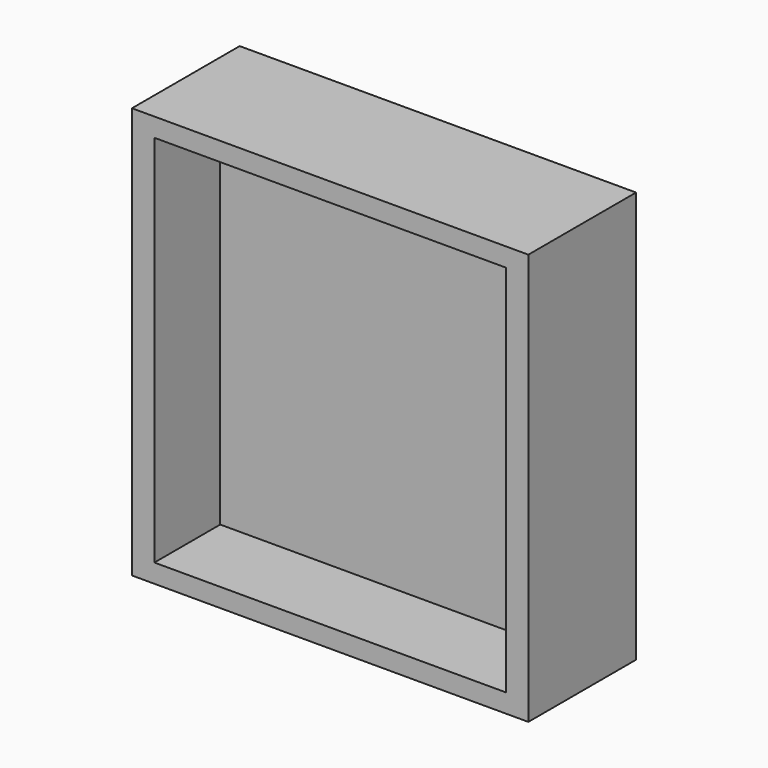
from build123d import *

# Parameters (mm, degrees)
BOX031_W     = 53
BOX031_H     = 7
BOX031_DEPTH = 55
BOX029_W     = 47
BOX029_H     = 12
BOX029_DEPTH = 50
BOX030_W     = 53
BOX030_H     = 11
BOX030_DEPTH = 55


with BuildPart() as cube030:
    # Box031 → Box031 (new body)
    with BuildSketch(Plane(origin=(-12, 3, -2.5), x_dir=(1, 0, 0), z_dir=(0, 0, 1))):
        with Locations((26.5, 3.5)):
            Rectangle(BOX031_W, BOX031_H)
    extrude(amount=BOX031_DEPTH)


with BuildPart() as cube028:
    # Box029 → Box029 (new body)
    with BuildSketch(Plane(origin=(-9, -8, 0), x_dir=(1, 0, 0), z_dir=(0, 0, 1))):
        with Locations((23.5, 6)):
            Rectangle(BOX029_W, BOX029_H)
    extrude(amount=BOX029_DEPTH)


with BuildPart() as fusion096:
    # Box030 → Box030 (new body)
    with BuildSketch(Plane(origin=(-12, -8, -2.5), x_dir=(1, 0, 0), z_dir=(0, 0, 1))):
        with Locations((26.5, 5.5)):
            Rectangle(BOX030_W, BOX030_H)
    extrude(amount=BOX030_DEPTH)

    # Cut045020: cut Cube028
    add(cube028.part, mode=Mode.SUBTRACT)

    # Fusion096: union Cube030
    add(cube030.part)


solid = fusion096.part
